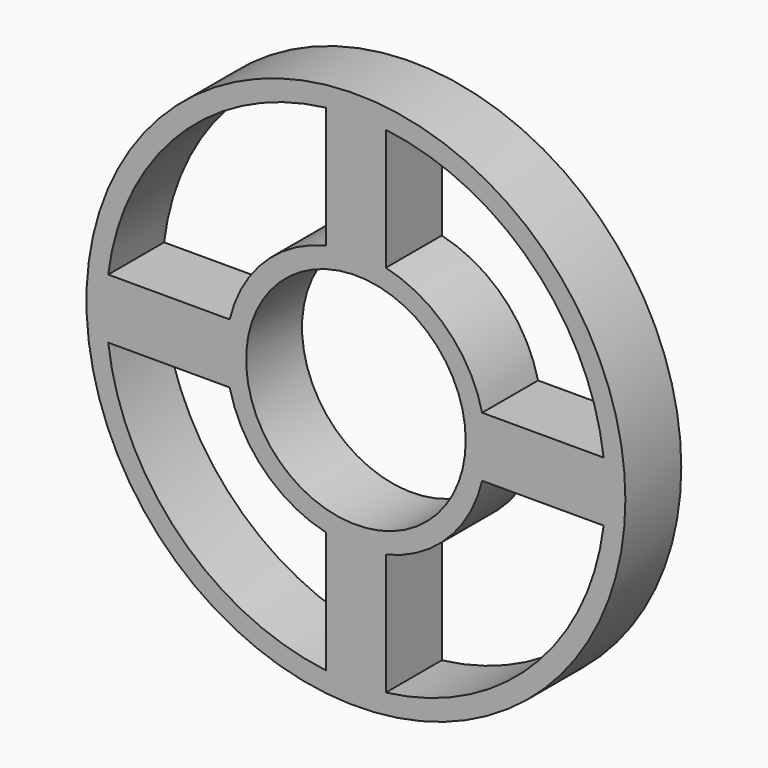
from build123d import *

# Parameters (mm, degrees)
F0_R     = 27
F0_R_2   = 11
F1_DEPTH = 7


with BuildPart() as f1:
    # F0 (on Front) → F1 (new body)
    with BuildSketch(Plane.XZ):
        Circle(F0_R)
        with BuildLine():
            ThreePointArc((3, 24.819347), (17.67767, 17.67767), (24.819347, 3))
            ThreePointArc((24.819347, 3), (24.954796, 1.502717), (25, 0))
            ThreePointArc((25, 0), (24.954796, -1.502717), (24.819347, -3))
            ThreePointArc((24.819347, -3), (17.67767, -17.67767), (3, -24.819347))
            ThreePointArc((3, -24.819347), (0, -25), (-3, -24.819347))
            ThreePointArc((-3, -24.819347), (-17.67767, -17.67767), (-24.819347, -3))
            ThreePointArc((-24.819347, -3), (-25, 0), (-24.819347, 3))
            ThreePointArc((-24.819347, 3), (-17.67767, 17.67767), (-3, 24.819347))
            ThreePointArc((-3, 24.819347), (0, 25), (3, 24.819347))
        make_face(mode=Mode.SUBTRACT)
        with BuildLine():
            ThreePointArc((-12.649111, -3), (-13, 0), (-12.649111, 3))
            Line((-12.649111, 3), (-24.819347, 3))
            ThreePointArc((-24.819347, 3), (-25, 0), (-24.819347, -3))
            Line((-24.819347, -3), (-12.649111, -3))
        make_face()
        with BuildLine():
            ThreePointArc((-3, 12.649111), (0, 13), (3, 12.649111))
            Line((3, 12.649111), (3, 24.819347))
            ThreePointArc((3, 24.819347), (0, 25), (-3, 24.819347))
            Line((-3, 24.819347), (-3, 12.649111))
        make_face()
        with BuildLine():
            ThreePointArc((12.649111, 3), (12.91198, 1.510225), (13, 0))
            ThreePointArc((13, 0), (12.91198, -1.510225), (12.649111, -3))
            Line((12.649111, -3), (24.819347, -3))
            ThreePointArc((24.819347, -3), (24.954796, -1.502717), (25, 0))
            ThreePointArc((25, 0), (24.954796, 1.502717), (24.819347, 3))
            Line((24.819347, 3), (12.649111, 3))
        make_face()
        with BuildLine():
            ThreePointArc((12.649111, -3), (12.91198, -1.510225), (13, 0))
            ThreePointArc((13, 0), (12.91198, 1.510225), (12.649111, 3))
            ThreePointArc((12.649111, 3), (9.192388, 9.192388), (3, 12.649111))
            ThreePointArc((3, 12.649111), (0, 13), (-3, 12.649111))
            ThreePointArc((-3, 12.649111), (-9.192388, 9.192388), (-12.649111, 3))
            ThreePointArc((-12.649111, 3), (-13, 0), (-12.649111, -3))
            ThreePointArc((-12.649111, -3), (-9.192388, -9.192388), (-3, -12.649111))
            ThreePointArc((-3, -12.649111), (0, -13), (3, -12.649111))
            ThreePointArc((3, -12.649111), (9.192388, -9.192388), (12.649111, -3))
        make_face()
        Circle(F0_R_2, mode=Mode.SUBTRACT)
        with BuildLine():
            Line((3, -24.819347), (3, -12.649111))
            ThreePointArc((3, -12.649111), (0, -13), (-3, -12.649111))
            Line((-3, -12.649111), (-3, -24.819347))
            ThreePointArc((-3, -24.819347), (0, -25), (3, -24.819347))
        make_face()
    extrude(amount=F1_DEPTH)


solid = f1.part
